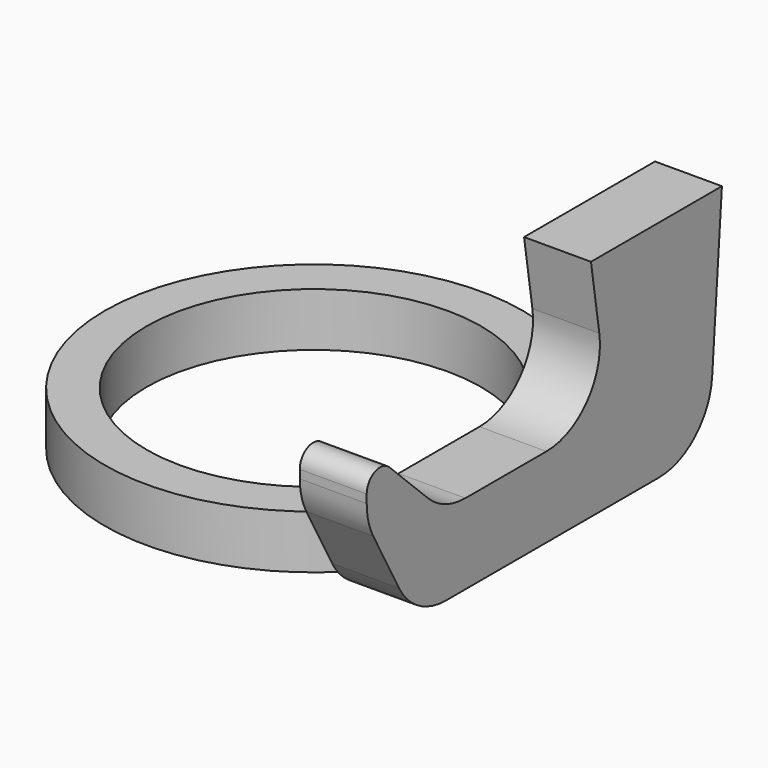
from build123d import *

# Parameters (mm, degrees)
F0_R     = 7.9375
F0_R_2   = 6.35
F1_DEPTH = 2.032
F4_DEPTH = 1.27
F5_R     = 2.54
F6_R     = 0.635


with BuildPart() as f1:
    # F0 (on Top) → F1 (new body)
    with BuildSketch(Plane.XY):
        Circle(F0_R)
        Circle(F0_R_2, mode=Mode.SUBTRACT)
    extrude(amount=F1_DEPTH)

    # F3 (on offset) → F4 (join, symmetric)
    with BuildSketch(Plane.YZ.offset(7.874)):
        Polygon((-6.665544, 0), (7.295991, 0), (7.934471, 8.52365), (1.720515, 8.52365), (2.570548, 3.045656), (-5.269391, 3.045656), (-8.920868, 6.589739), (-8.920868, 4.119621), align=None)
    extrude(amount=F4_DEPTH, both=True)

    # F5
    f5_edges = [f1.edges().sort_by_distance(p)[0] for p in [
        (7.874, 2.570548, 3.045656),
        (7.874, -5.269391, 3.045656),
        (7.874, 7.295991, 0),
        (7.874, -6.665544, 0),
        (7.874, -8.920868, 4.119621),
    ]]
    fillet(f5_edges, radius=F5_R)

    # F6
    f6_edges = [f1.edges().sort_by_distance(p)[0] for p in [
        (7.874, -8.920868, 6.589739),
    ]]
    fillet(f6_edges, radius=F6_R)


solid = f1.part
